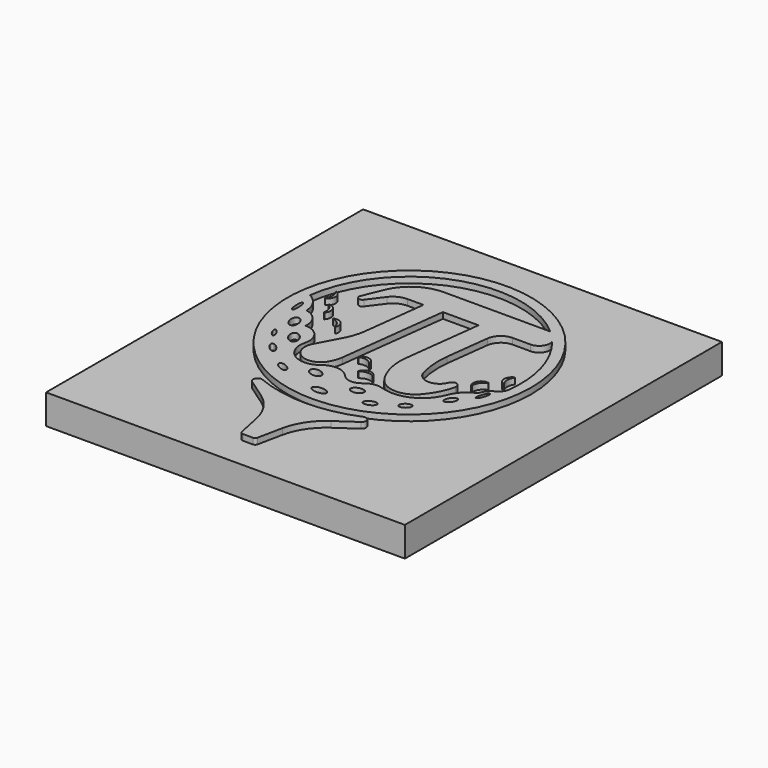
from build123d import *

# Parameters (mm, degrees)
SKETCH001_W  = 120.74702
SKETCH001_H  = 133.366654
PAD_DEPTH    = 10
SKETCH_R     = 41
PAD001_DEPTH = 12


with BuildPart() as part:
    # Sketch001 → Pad (new body)
    with BuildSketch(Plane.XY):
        with Locations((1.132414, -12.118538)):
            Rectangle(SKETCH001_W, SKETCH001_H)
    extrude(amount=PAD_DEPTH)

    # Sketch → Pad001 (join)
    with BuildSketch(Plane.XY):
        Circle(SKETCH_R)
        with BuildLine():
            Line((24.944939, 28), (-10.895302, 28))
            ThreePointArc((-10.895302, 28), (-18.692575, 25.627662), (-23.84731, 19.314647))
            Line((-23.84731, 19.314647), (-26.533736, 12.767719))
            ThreePointArc((-26.533736, 12.767719), (-26.120984, 11.178553), (-24.532528, 11.594028))
            Line((-24.532528, 11.594028), (-20.822056, 16.532322))
            ThreePointArc((-20.822056, 16.532322), (-18.642663, 18.348768), (-15.8813, 19))
            Line((-15.8813, 19), (-10.5, 19))
            Line((-10.5, 19), (-13.115316, -2.30004))
            ThreePointArc((-13.115316, -2.30004), (-13.837469, -5.62283), (-15.15433, -8.757845))
            Line((-15.15433, -8.757845), (-19.306871, -16.552398))
            ThreePointArc((-19.306871, -16.552398), (-17.219198, -23.76929), (-9.945534, -21.888937))
            ThreePointArc((-9.945534, -21.888937), (-8.961743, -19.802425), (-8.439634, -17.555475))
            Line((-8.439634, -17.555475), (-3.951186, 19))
            Line((-3.951186, 19), (8.048814, 19))
            Line((8.048814, 19), (4.796121, -7.491057))
            ThreePointArc((4.796121, -7.491057), (5.150998, -14.140538), (7.770472, -20.262621))
            ThreePointArc((7.770472, -20.262621), (13.902842, -23.911022), (20.550561, -21.317835))
            ThreePointArc((20.550561, -21.317835), (23.526115, -17.076721), (25.284516, -12.203427))
            ThreePointArc((25.284516, -12.203427), (24.222478, -10.421497), (22.371765, -11.358546))
            ThreePointArc((22.371765, -11.358546), (17.816419, -14.391471), (13.551398, -10.962273))
            ThreePointArc((13.551398, -10.962273), (12.643404, -5.601351), (12.748206, -0.165089))
            Line((12.748206, -0.165089), (14.557965, 14.574221))
            ThreePointArc((14.557965, 14.574221), (16.220793, 17.734737), (19.560398, 19))
            Line((19.560398, 19), (25.560398, 19))
            ThreePointArc((25.560398, 19), (28.496573, 20.488611), (29.031198, 23.736882))
            ThreePointArc((29.031198, 23.736882), (36.120637, 10.077181), (37.12646, -5.279768))
            ThreePointArc((37.12646, -5.279768), (36.271819, -6.608866), (35.023577, -7.577783))
            ThreePointArc((35.023577, -7.577783), (33.161154, -9.122607), (32.055987, -11.275211))
            ThreePointArc((32.055987, -11.275211), (28.583444, -13.626947), (26.344927, -17.173532))
            ThreePointArc((26.344927, -17.173532), (19.97927, -24.128196), (10.568566, -24.700541))
            ThreePointArc((10.568566, -24.700541), (7.574896, -24.503535), (4.87371, -25.809088))
            ThreePointArc((4.87371, -25.809088), (1.614253, -26.870054), (-1.438261, -25.310607))
            ThreePointArc((-1.438261, -25.310607), (-5.622107, -23.140258), (-10.130382, -24.515188))
            ThreePointArc((-10.130382, -24.515188), (-18.338598, -24.972728), (-21.321093, -17.311862))
            ThreePointArc((-21.321093, -17.311862), (-22.39356, -11.998966), (-27.248898, -9.590078))
            ThreePointArc((-27.248898, -9.590078), (-28.556542, -5.09321), (-32.524006, -2.60504))
            ThreePointArc((-32.524006, -2.60504), (-33.856544, 1.680067), (-37.208926, 4.663244))
            ThreePointArc((-37.208926, 4.663244), (-13.181517, 35.106945), (24.944939, 28))
        make_face(mode=Mode.SUBTRACT)
        with BuildLine():
            add(Edge.make_bspline(
                [(34.771197, -9.593037), (33.788585, -9.254696), (33.181099, -12.614992), (32.573612, -15.975287), (34.16371, -12.953332), (35.753809, -9.931377), (34.771197, -9.593037)],
                knots=[0, 0, 0, 2.094395, 2.094395, 4.18879, 4.18879, 6.283185, 6.283185, 6.283185], degree=2, weights=[1, 0.5, 1, 0.5, 1, 0.5, 1]))
        make_face(mode=Mode.SUBTRACT)
        with BuildLine():
            add(Edge.make_bspline(
                [(8.395417, -29.396887), (7.891257, -27.025005), (5.062172, -28.865868), (2.233087, -30.706731), (5.566331, -31.23775), (8.899576, -31.768769), (8.395417, -29.396887)],
                knots=[0, 0, 0, 2.094395, 2.094395, 4.18879, 4.18879, 6.283185, 6.283185, 6.283185], degree=2, weights=[1, 0.5, 1, 0.5, 1, 0.5, 1]))
        make_face(mode=Mode.SUBTRACT)
        with BuildLine():
            add(Edge.make_bspline(
                [(15.386564, -32.610675), (14.640401, -30.763856), (12.162392, -32.839181), (9.684384, -34.914506), (12.908556, -34.686), (16.132728, -34.457494), (15.386564, -32.610675)],
                knots=[0, 0, 0, 2.094395, 2.094395, 4.18879, 4.18879, 6.283185, 6.283185, 6.283185], degree=2, weights=[1, 0.5, 1, 0.5, 1, 0.5, 1]))
        make_face(mode=Mode.SUBTRACT)
        with BuildLine():
            add(Edge.make_bspline(
                [(23.162782, -27.622475), (21.964052, -26.031706), (20.317255, -28.519696), (18.670458, -31.007685), (21.515985, -30.110464), (24.361513, -29.213244), (23.162782, -27.622475)],
                knots=[0, 0, 0, 2.094395, 2.094395, 4.18879, 4.18879, 6.283185, 6.283185, 6.283185], degree=2, weights=[1, 0.5, 1, 0.5, 1, 0.5, 1]))
        make_face(mode=Mode.SUBTRACT)
        with BuildLine():
            add(Edge.make_bspline(
                [(30.023413, -17.112706), (28.425531, -16.075029), (27.590555, -19.109879), (26.755578, -22.144729), (29.188437, -20.147556), (31.621295, -18.150382), (30.023413, -17.112706)],
                knots=[0, 0, 0, 2.094395, 2.094395, 4.18879, 4.18879, 6.283185, 6.283185, 6.283185], degree=2, weights=[1, 0.5, 1, 0.5, 1, 0.5, 1]))
        make_face(mode=Mode.SUBTRACT)
        with BuildLine():
            add(Edge.make_bspline(
                [(0.929702, -36.074888), (1.028012, -33.823222), (-2.771143, -34.785327), (-6.570298, -35.747431), (-2.869453, -37.036993), (0.831392, -38.326554), (0.929702, -36.074888)],
                knots=[0, 0, 0, 2.094395, 2.094395, 4.18879, 4.18879, 6.283185, 6.283185, 6.283185], degree=2, weights=[1, 0.5, 1, 0.5, 1, 0.5, 1]))
        make_face(mode=Mode.SUBTRACT)
        with BuildLine():
            add(Edge.make_bspline(
                [(-6.363116, -29.403627), (-5.625222, -26.91254), (-9.230186, -27.199531), (-12.835149, -27.486523), (-9.968079, -29.690618), (-7.101009, -31.894713), (-6.363116, -29.403627)],
                knots=[0, 0, 0, 2.094395, 2.094395, 4.18879, 4.18879, 6.283185, 6.283185, 6.283185], degree=2, weights=[1, 0.5, 1, 0.5, 1, 0.5, 1]))
        make_face(mode=Mode.SUBTRACT)
        with BuildLine():
            add(Edge.make_bspline(
                [(-15.572714, -32.52865), (-14.732999, -31.013764), (-17.973505, -30.207696), (-21.214011, -29.401628), (-18.81322, -31.722582), (-16.412429, -34.043536), (-15.572714, -32.52865)],
                knots=[0, 0, 0, 2.094395, 2.094395, 4.18879, 4.18879, 6.283185, 6.283185, 6.283185], degree=2, weights=[1, 0.5, 1, 0.5, 1, 0.5, 1]))
        make_face(mode=Mode.SUBTRACT)
        with BuildLine():
            add(Edge.make_bspline(
                [(-24.862437, -26.124351), (-23.722369, -25.061221), (-26.491848, -23.234171), (-29.261326, -21.40712), (-27.631915, -24.297301), (-26.002504, -27.187482), (-24.862437, -26.124351)],
                knots=[0, 0, 0, 2.094395, 2.094395, 4.18879, 4.18879, 6.283185, 6.283185, 6.283185], degree=2, weights=[1, 0.5, 1, 0.5, 1, 0.5, 1]))
        make_face(mode=Mode.SUBTRACT)
        with BuildLine():
            add(Edge.make_bspline(
                [(-35.783004, -4.647747), (-34.743774, -4.584185), (-35.488162, -0.940966), (-36.23255, 2.702253), (-36.527392, -1.004528), (-36.822235, -4.711309), (-35.783004, -4.647747)],
                knots=[0, 0, 0, 2.094395, 2.094395, 4.18879, 4.18879, 6.283185, 6.283185, 6.283185], degree=2, weights=[1, 0.5, 1, 0.5, 1, 0.5, 1]))
        make_face(mode=Mode.SUBTRACT)
        with BuildLine():
            add(Edge.make_bspline(
                [(-24.217855, -18.708167), (-21.966294, -17.245986), (-25.134471, -14.832062), (-28.302647, -12.418138), (-27.386032, -16.294243), (-26.469416, -20.170348), (-24.217855, -18.708167)],
                knots=[0, 0, 0, 2.094395, 2.094395, 4.18879, 4.18879, 6.283185, 6.283185, 6.283185], degree=2, weights=[1, 0.5, 1, 0.5, 1, 0.5, 1]))
        make_face(mode=Mode.SUBTRACT)
        with BuildLine():
            add(Edge.make_bspline(
                [(-30.471064, -19.250371), (-29.566564, -18.738629), (-31.311426, -16.709816), (-33.056288, -14.681003), (-32.215926, -17.221558), (-31.375564, -19.762112), (-30.471064, -19.250371)],
                knots=[0, 0, 0, 2.094395, 2.094395, 4.18879, 4.18879, 6.283185, 6.283185, 6.283185], degree=2, weights=[1, 0.5, 1, 0.5, 1, 0.5, 1]))
        make_face(mode=Mode.SUBTRACT)
        with BuildLine():
            add(Edge.make_bspline(
                [(-30.382598, -11.782867), (-27.9643, -11.043519), (-30.219409, -7.992013), (-32.474518, -4.940507), (-32.637707, -8.731361), (-32.800896, -12.522215), (-30.382598, -11.782867)],
                knots=[0, 0, 0, 2.094395, 2.094395, 4.18879, 4.18879, 6.283185, 6.283185, 6.283185], degree=2, weights=[1, 0.5, 1, 0.5, 1, 0.5, 1]))
        make_face(mode=Mode.SUBTRACT)
        with BuildLine():
            ThreePointArc((-16.923077, -40.615385), (0, -44), (16.923077, -40.615385))
            ThreePointArc((16.923077, -40.615385), (18.816638, -41.281346), (18.352493, -43.234202))
            Line((18.352493, -43.234202), (11.770081, -47.780833))
            ThreePointArc((11.770081, -47.780833), (6.994736, -52.649326), (4.373209, -58.94486))
            Line((4.373209, -58.94486), (2.66496, -67.202578))
            ThreePointArc((2.66496, -67.202578), (2.31713, -67.775428), (1.685694, -68))
            Line((1.685694, -68), (-1.685694, -68))
            ThreePointArc((-1.685694, -68), (-2.31713, -67.775428), (-2.66496, -67.202578))
            Line((-2.66496, -67.202578), (-4.373209, -58.94486))
            ThreePointArc((-4.373209, -58.94486), (-6.994736, -52.649326), (-11.770081, -47.780833))
            Line((-11.770081, -47.780833), (-18.352493, -43.234202))
            ThreePointArc((-18.352493, -43.234202), (-18.816638, -41.281346), (-16.923077, -40.615385))
        make_face()
        with BuildLine():
            ThreePointArc((-1.013565, -15.719093), (-0.832869, -15.751755), (-0.755947, -15.585019))
            ThreePointArc((-0.755947, -15.585019), (-2.771214, -13.620953), (-5.393699, -14.641458))
            ThreePointArc((-5.393699, -14.641458), (-5.388041, -14.824995), (-5.208947, -14.865533))
            ThreePointArc((-5.208947, -14.865533), (-2.970582, -14.600878), (-1.013565, -15.719093))
        make_face()
        with BuildLine():
            ThreePointArc((-28.318226, -0.471023), (-28.242797, -0.63844), (-28.061816, -0.607393))
            ThreePointArc((-28.061816, -0.607393), (-27.584638, 2.165901), (-29.911054, 3.749139))
            ThreePointArc((-29.911054, 3.749139), (-30.059107, 3.64052), (-29.991075, 3.469963))
            ThreePointArc((-29.991075, 3.469963), (-28.505142, 1.77517), (-28.318226, -0.471023))
        make_face()
        with BuildLine():
            ThreePointArc((34.143096, 1.545022), (34.142282, 1.728644), (33.96432, 1.773893))
            ThreePointArc((33.96432, 1.773893), (32.400396, -0.565551), (33.881722, -2.95815))
            ThreePointArc((33.881722, -2.95815), (34.061155, -2.91914), (34.068376, -2.735657))
            ThreePointArc((34.068376, -2.735657), (33.400244, -0.583003), (34.143096, 1.545022))
        make_face()
        with BuildLine():
            ThreePointArc((-20.97552, -5.081243), (-20.842867, -5.208212), (-20.686695, -5.11163))
            ThreePointArc((-20.686695, -5.11163), (-21.283157, -2.361522), (-24.033265, -1.76506))
            ThreePointArc((-24.033265, -1.76506), (-24.129847, -1.921232), (-24.002878, -2.053885))
            ThreePointArc((-24.002878, -2.053885), (-21.990264, -3.068629), (-20.97552, -5.081243))
        make_face()
        with BuildLine():
            ThreePointArc((-33.131473, 6.059335), (-33.127454, 5.875754), (-32.94873, 5.833618))
            ThreePointArc((-32.94873, 5.833618), (-31.425873, 8.2), (-32.94873, 10.566382))
            ThreePointArc((-32.94873, 10.566382), (-33.127454, 10.524246), (-33.131473, 10.340665))
            ThreePointArc((-33.131473, 10.340665), (-32.425873, 8.2), (-33.131473, 6.059335))
        make_face()
        with BuildLine():
            ThreePointArc((30.514747, -5.221277), (30.612721, -5.065974), (30.486942, -4.932193))
            ThreePointArc((30.486942, -4.932193), (27.910959, -6.064964), (27.874755, -8.878777))
            ThreePointArc((27.874755, -8.878777), (28.047047, -8.942285), (28.151723, -8.791418))
            ThreePointArc((28.151723, -8.791418), (28.744845, -6.616901), (30.514747, -5.221277))
        make_face()
        with BuildLine():
            ThreePointArc((4.153692, -20.80326), (4.336042, -20.781665), (4.360855, -20.599725))
            ThreePointArc((4.360855, -20.599725), (1.859408, -19.310686), (-0.350121, -21.05334))
            ThreePointArc((-0.350121, -21.05334), (-0.291049, -21.227203), (-0.107928, -21.213608))
            ThreePointArc((-0.107928, -21.213608), (1.955253, -20.306082), (4.153692, -20.80326))
        make_face()
    extrude(amount=PAD001_DEPTH)


solid = part.part
